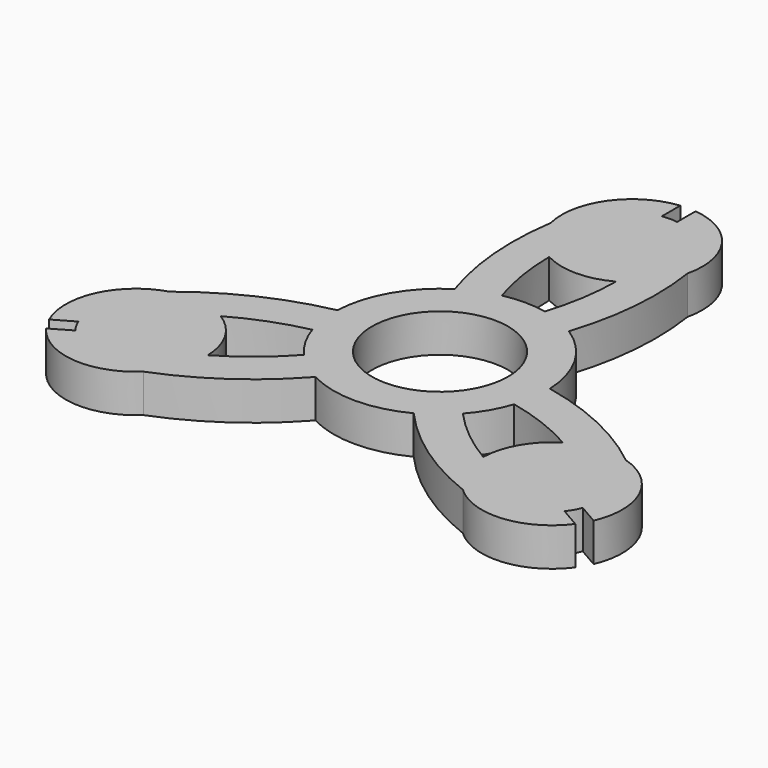
from build123d import *

# Parameters (mm, degrees)
F0_R     = 11.2903
F1_DEPTH = 6.35


with BuildPart() as f1:
    # F0 (on Top) → F1 (new body)
    with BuildSketch(Plane.XY):
        with BuildLine():
            ThreePointArc((-11.346624, 37.154203), (-11.72432, 25.907716), (-9.469638, 14.883083))
            ThreePointArc((-9.469638, 14.883083), (-15.276948, 8.82015), (-17.623946, 0.759406))
            ThreePointArc((-17.623946, 0.759406), (-28.2989, -2.800299), (-37.849796, -8.750637))
            ThreePointArc((-37.849796, -8.750637), (-45.082615, -15.032073), (-45.168132, -24.611364))
            Line((-45.168132, -24.611364), (-41.839084, -22.689337))
            ThreePointArc((-41.839084, -22.689337), (-35.905842, -12.195564), (-26.647972, -19.916605))
            ThreePointArc((-26.647972, -19.916605), (-31.856515, -27.307858), (-40.569084, -24.889041))
            Line((-40.569084, -24.889041), (-43.898132, -26.811068))
            ThreePointArc((-43.898132, -26.811068), (-35.559465, -31.526653), (-26.503172, -28.403566))
            ThreePointArc((-26.503172, -28.403566), (-16.57458, -23.107417), (-8.154309, -15.642488))
            ThreePointArc((-8.154309, -15.642488), (0, -17.6403), (8.154309, -15.642488))
            ThreePointArc((8.154309, -15.642488), (16.57458, -23.107417), (26.503172, -28.403566))
            ThreePointArc((26.503172, -28.403566), (35.559465, -31.526653), (43.898132, -26.811068))
            Line((43.898132, -26.811068), (40.569084, -24.889041))
            ThreePointArc((40.569084, -24.889041), (27.105319, -17.276548), (42.345172, -19.916605))
            ThreePointArc((42.345172, -19.916605), (42.217614, -21.325875), (41.839084, -22.689337))
            Line((41.839084, -22.689337), (45.168132, -24.611364))
            ThreePointArc((45.168132, -24.611364), (45.082615, -15.032073), (37.849796, -8.750637))
            ThreePointArc((37.849796, -8.750637), (28.2989, -2.800299), (17.623946, 0.759406))
            ThreePointArc((17.623946, 0.759406), (15.276948, 8.82015), (9.469638, 14.883083))
            ThreePointArc((9.469638, 14.883083), (11.72432, 25.907716), (11.346624, 37.154203))
            ThreePointArc((11.346624, 37.154203), (9.52315, 46.558727), (1.27, 51.422432))
            Line((1.27, 51.422432), (1.27, 47.578378))
            ThreePointArc((1.27, 47.578378), (5.981983, 44.914195), (7.8486, 39.83321))
            ThreePointArc((7.8486, 39.83321), (-5.080984, 33.851227), (-1.27, 47.578378))
            Line((-1.27, 47.578378), (-1.27, 51.422432))
            ThreePointArc((-1.27, 51.422432), (-9.52315, 46.558727), (-11.346624, 37.154203))
        make_face()
        with BuildLine():
            ThreePointArc((-13.175642, -11.729563), (-17.713182, -16.022689), (-22.842613, -19.587676))
            ThreePointArc((-22.842613, -19.587676), (-24.399928, -14.087305), (-28.384732, -9.988445))
            ThreePointArc((-28.384732, -9.988445), (-22.732647, -7.328721), (-16.745921, -5.545659))
            ThreePointArc((-16.745921, -5.545659), (-15.276948, -8.82015), (-13.175642, -11.729563))
        make_face(mode=Mode.SUBTRACT)
        with BuildLine():
            ThreePointArc((16.745921, -5.545659), (22.732647, -7.328721), (28.384732, -9.988445))
            ThreePointArc((28.384732, -9.988445), (24.399928, -14.087305), (22.842613, -19.587676))
            ThreePointArc((22.842613, -19.587676), (17.713182, -16.022689), (13.175642, -11.729563))
            ThreePointArc((13.175642, -11.729563), (15.276948, -8.82015), (16.745921, -5.545659))
        make_face(mode=Mode.SUBTRACT)
        Circle(F0_R, mode=Mode.SUBTRACT)
        with BuildLine():
            ThreePointArc((-3.570279, 17.275222), (-5.019465, 23.35141), (-5.542119, 29.576122))
            ThreePointArc((-5.542119, 29.576122), (0, 28.17461), (5.542119, 29.576122))
            ThreePointArc((5.542119, 29.576122), (5.019465, 23.35141), (3.570279, 17.275222))
            ThreePointArc((3.570279, 17.275222), (0, 17.6403), (-3.570279, 17.275222))
        make_face(mode=Mode.SUBTRACT)
        with BuildLine():
            ThreePointArc((-26.647972, -19.916605), (-35.905842, -12.195564), (-41.839084, -22.689337))
            ThreePointArc((-41.839084, -22.689337), (-41.293659, -23.840905), (-40.569084, -24.889041))
            ThreePointArc((-40.569084, -24.889041), (-31.856515, -27.307858), (-26.647972, -19.916605))
        make_face()
        with BuildLine():
            ThreePointArc((1.27, 47.578378), (0, 47.68181), (-1.27, 47.578378))
            ThreePointArc((-1.27, 47.578378), (-5.080984, 33.851227), (7.8486, 39.83321))
            ThreePointArc((7.8486, 39.83321), (5.981983, 44.914195), (1.27, 47.578378))
        make_face()
        with BuildLine():
            ThreePointArc((40.569084, -24.889041), (41.293659, -23.840905), (41.839084, -22.689337))
            ThreePointArc((41.839084, -22.689337), (42.217614, -21.325875), (42.345172, -19.916605))
            ThreePointArc((42.345172, -19.916605), (27.105319, -17.276548), (40.569084, -24.889041))
        make_face()
    extrude(amount=F1_DEPTH)


solid = f1.part
